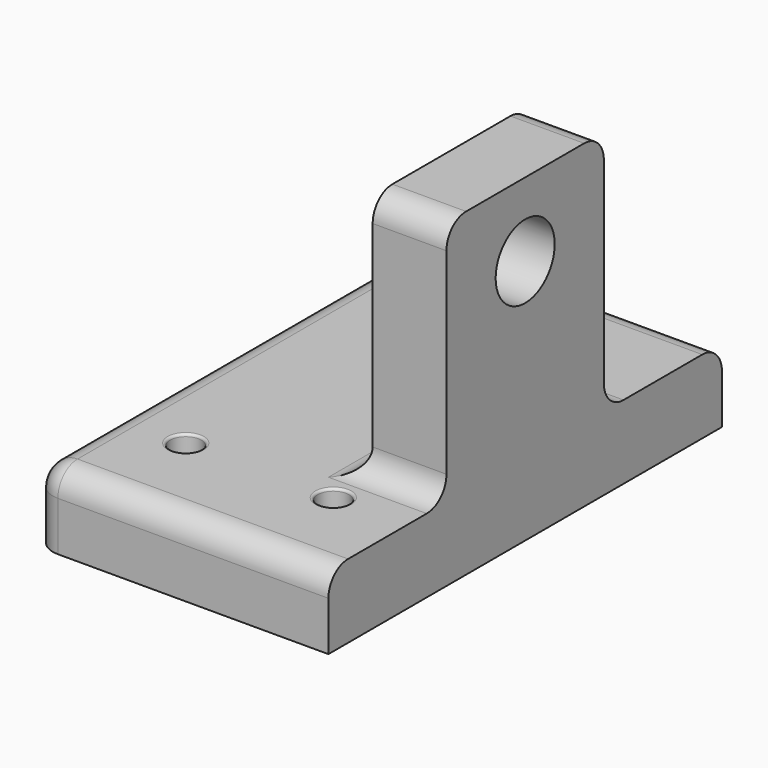
from build123d import *

# Parameters (mm, degrees)
F1_DEPTH = 15
F2_W     = 40
F2_H     = 50
F3_DEPTH = 15
F5_R     = 5
F6_R     = 7.5
F7_DEPTH = 25
F8_R     = 3.1732892369
F9_DEPTH = 25
F10_R    = 0.5


with BuildPart() as f1:
    # F0 (on Top) → F1 (new body)
    with BuildSketch(Plane.XY):
        with BuildLine():
            ThreePointArc((-38.5634199679, -28.3495128886), (-37.0989538738, -31.8850467945), (-33.5634199679, -33.3495128886))
            Line((-33.5634199679, -33.3495128886), (21.4365800321, -33.3495128886))
            Line((21.4365800321, -33.3495128886), (21.4365800321, 66.6504871114))
            Line((21.4365800321, 66.6504871114), (-33.5634199679, 66.6504871114))
            ThreePointArc((-33.5634199679, 66.6504871114), (-37.0989538738, 65.1860210174), (-38.5634199679, 61.6504871114))
            Line((-38.5634199679, 61.6504871114), (-38.5634199679, -28.3495128886))
        make_face()
    extrude(amount=F1_DEPTH)


with BuildPart() as f3:
    # F2 (on face) → F3 (new body)
    with BuildSketch(Plane.YZ.offset(21.4365800321)):
        with Locations((16.6504871114, 40)):
            Rectangle(F2_W, F2_H)
    extrude(amount=-F3_DEPTH)

    # F4: union F1
    add(f1.part)

    # F5
    f5_edges = [f3.edges().sort_by_distance(p)[0] for p in [
        (6.43658, 16.650487, 15),
        (13.93658, -3.349513, 15),
        (13.93658, -3.349513, 65),
        (13.93658, 36.650487, 65),
        (13.93658, 36.650487, 15),
        (-6.06342, 66.650487, 15),
    ]]
    fillet(f5_edges, radius=F5_R)

    # F6 (on face) → F7 (cut)
    with BuildSketch(Plane(origin=(6.4365800321, 0, 0), x_dir=(0, -1, 0), z_dir=(-1, 0, 0))):
        with Locations((-16.6504871114, 50)):
            Circle(F6_R)
    extrude(amount=-F7_DEPTH, mode=Mode.SUBTRACT)

    # F8 (on face) → F9 (cut)
    with BuildSketch(Plane(origin=(0, 0, 0), x_dir=(1, 0, 0), z_dir=(0, 0, -1))):
        with Locations((-23.5634199679, -46.6504871114)):
            Circle(F8_R)
        with Locations((6.4365800321, -46.6504871114)):
            Circle(F8_R)
        with Locations((6.4365800321, 13.3495128886)):
            Circle(F8_R)
        with Locations((-23.5634199679, 13.3495128886)):
            Circle(F8_R)
    extrude(amount=-F9_DEPTH, mode=Mode.SUBTRACT)

    # F10
    f10_edges = [f3.edges().sort_by_distance(p)[0] for p in [
        (3.263291, -13.349513, 15),
        (-26.736709, -13.349513, 15),
        (-26.736709, 46.650487, 15),
        (3.263291, 46.650487, 15),
    ]]
    fillet(f10_edges, radius=F10_R)


solid = f3.part
